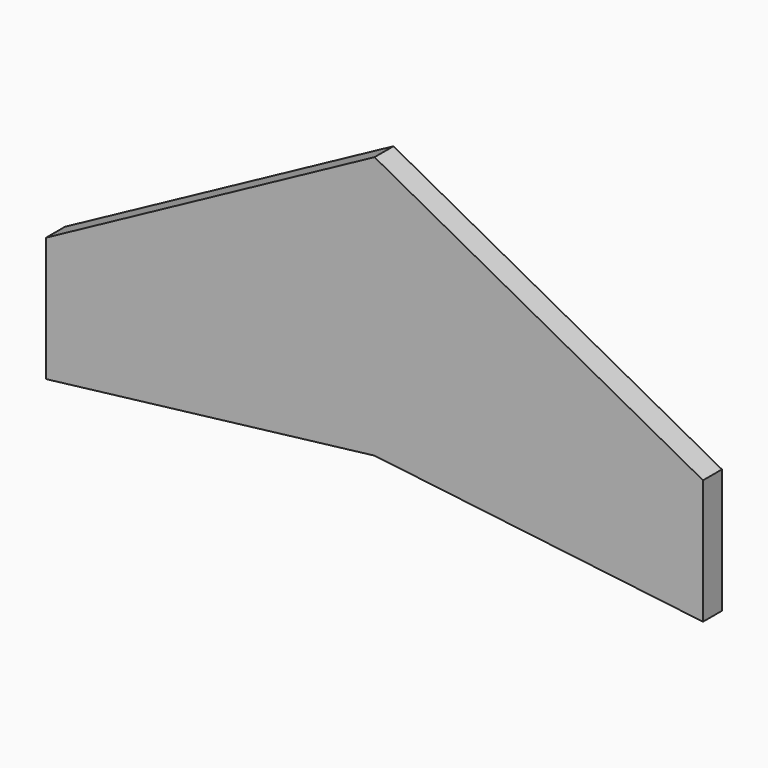
from build123d import *

# Parameters (mm, degrees)
F1_DEPTH = 4.572


with BuildPart() as f1:
    # F0 (on Front) → F1 (new body)
    with BuildSketch(Plane.XZ):
        Polygon((0, 24.070704), (0, 7.62), (63.5, 7.62), (63.5, 58.42), align=None)
        Polygon((0, 7.62), (0, 0), (63.5, 7.62), align=None)
        Polygon((63.5, 58.42), (63.5, 7.62), (127, 7.62), (127, 24.070704), align=None)
        Polygon((127, 7.62), (63.5, 7.62), (127, 0), align=None)
    extrude(amount=F1_DEPTH)


solid = f1.part
